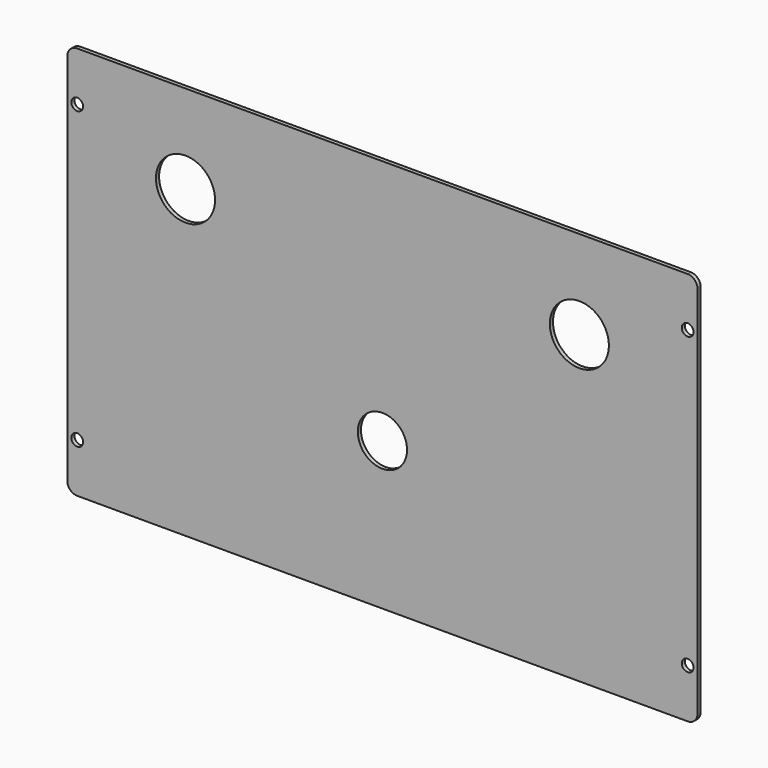
from build123d import *

# Parameters (mm, degrees)
F0_R     = 3
F0_R_2   = 12.5
F0_R_3   = 15
F1_DEPTH = 2


with BuildPart() as f1:
    # F0 (on Front) → F1 (new body)
    with BuildSketch(Plane.XZ):
        with BuildLine():
            Line((155, 200), (-155, 200))
            ThreePointArc((-155, 200), (-158.535534, 198.535534), (-160, 195))
            Line((-160, 195), (-160, 5))
            ThreePointArc((-160, 5), (-158.535534, 1.464466), (-155, 0))
            Line((-155, 0), (155, 0))
            ThreePointArc((155, 0), (158.535534, 1.464466), (160, 5))
            Line((160, 5), (160, 195))
            ThreePointArc((160, 195), (158.535534, 198.535534), (155, 200))
        make_face()
        with Locations((-155, 25)):
            Circle(F0_R, mode=Mode.SUBTRACT)
        with Locations((155, 25)):
            Circle(F0_R, mode=Mode.SUBTRACT)
        with Locations((0, 75)):
            Circle(F0_R_2, mode=Mode.SUBTRACT)
        with Locations((-100, 155)):
            Circle(F0_R_3, mode=Mode.SUBTRACT)
        with Locations((-155, 175)):
            Circle(F0_R, mode=Mode.SUBTRACT)
        with Locations((100, 155)):
            Circle(F0_R_3, mode=Mode.SUBTRACT)
        with Locations((155, 175)):
            Circle(F0_R, mode=Mode.SUBTRACT)
    extrude(amount=F1_DEPTH)


solid = f1.part
